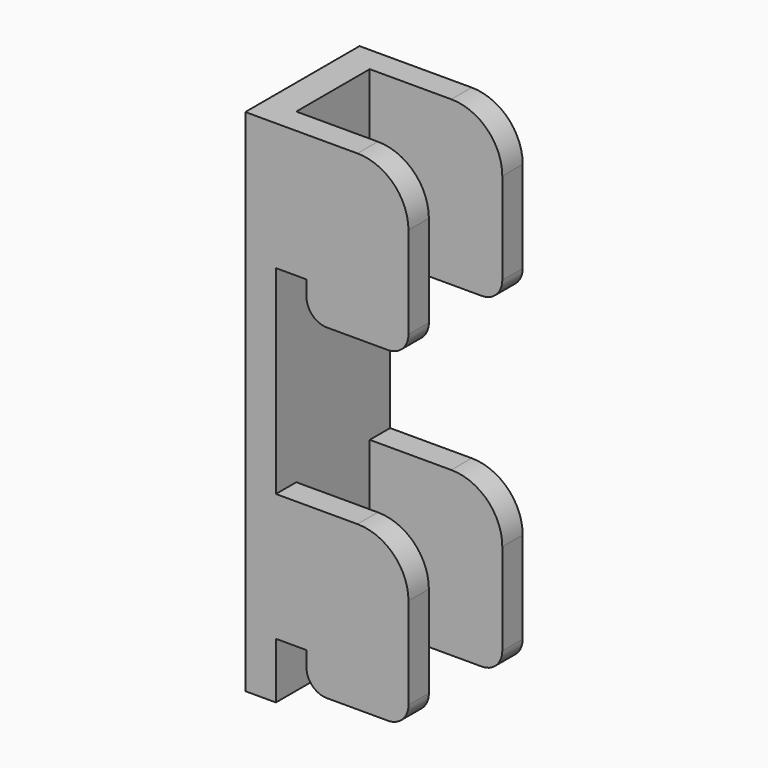
from build123d import *

# Parameters (mm, degrees)
F1_W     = 3
F1_H     = 12.5
F2_DEPTH = 7
F3_W     = 9
F3_H     = 50
F4_DEPTH = 13.001


with BuildPart() as f2:
    # F1 (on Front) → F2 (new body, symmetric)
    with BuildSketch(Plane.XZ):
        Polygon((3, 50), (0, 50), (0, 0), (3, 0), (3, 5.5), (3, 18), (3, 37.5), align=None)
        with Locations((4.5, 43.75)):
            Rectangle(F1_W, F1_H)
        with BuildLine():
            Line((11, 50), (6, 50))
            Line((6, 50), (6, 37.5))
            Line((6, 37.5), (6, 36))
            ThreePointArc((6, 36), (6.5857864376, 34.5857864376), (8, 34))
            Line((8, 34), (14, 34))
            ThreePointArc((14, 34), (15.4142135624, 34.5857864376), (16, 36))
            Line((16, 36), (16, 45))
            ThreePointArc((16, 45), (14.5355339059, 48.5355339059), (11, 50))
        make_face()
        with Locations((4.5, 11.75)):
            Rectangle(F1_W, F1_H)
        with BuildLine():
            Line((11, 18), (6, 18))
            Line((6, 18), (6, 5.5))
            Line((6, 5.5), (6, 4))
            ThreePointArc((6, 4), (6.5857864376, 2.5857864376), (8, 2))
            Line((8, 2), (14, 2))
            ThreePointArc((14, 2), (15.4142135624, 2.5857864376), (16, 4))
            Line((16, 4), (16, 13))
            ThreePointArc((16, 13), (14.5355339059, 16.5355339059), (11, 18))
        make_face()
    extrude(amount=F2_DEPTH, both=True)

    # F3 (on face) → F4 (cut, through all)
    with BuildSketch(Plane.YZ.offset(3)):
        with Locations((0, 25)):
            Rectangle(F3_W, F3_H)
    extrude(amount=F4_DEPTH, mode=Mode.SUBTRACT)


solid = f2.part
